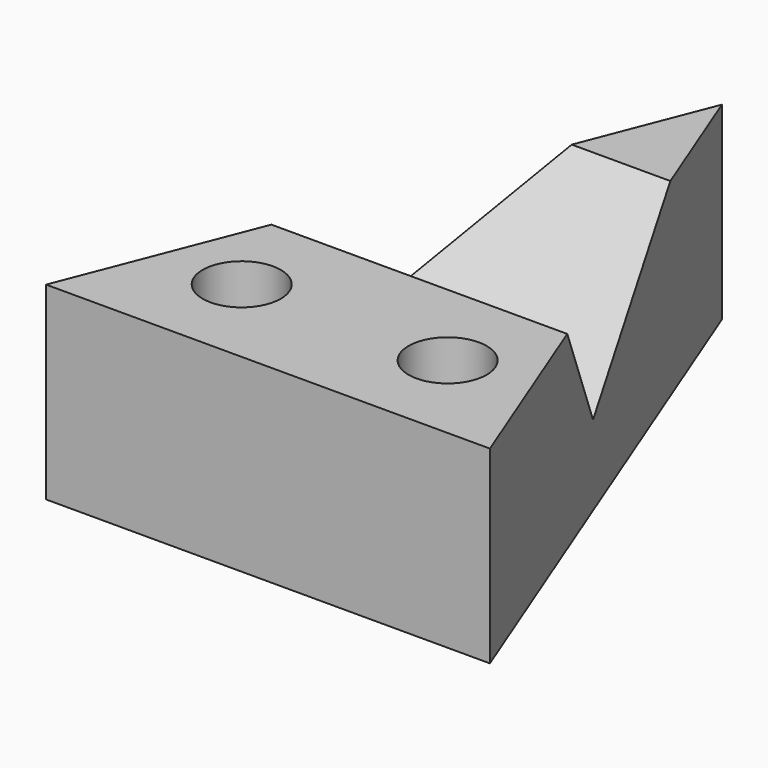
from build123d import *

# Parameters (mm, degrees)
F0_R     = 7.874
F1_DEPTH = 38.1
F4_DEPTH = 89.408


with BuildPart() as f1:
    # F0 (on Top) → F1 (new body)
    with BuildSketch(Plane.XY):
        Polygon((0, 57.15), (-44.704, -57.15), (44.704, -57.15), align=None)
        with Locations((-20.738764, -37.846)):
            Circle(F0_R, mode=Mode.SUBTRACT)
        with Locations((20.738764, -37.846)):
            Circle(F0_R, mode=Mode.SUBTRACT)
    extrude(amount=F1_DEPTH)

    # F3 (on offset) → F4 (cut)
    with BuildSketch(Plane.YZ.offset(44.704)):
        Polygon((31.75, 38.1), (-19.05, 38.1), (-6.35, 16.102955), align=None)
    extrude(amount=-F4_DEPTH, mode=Mode.SUBTRACT)


solid = f1.part
